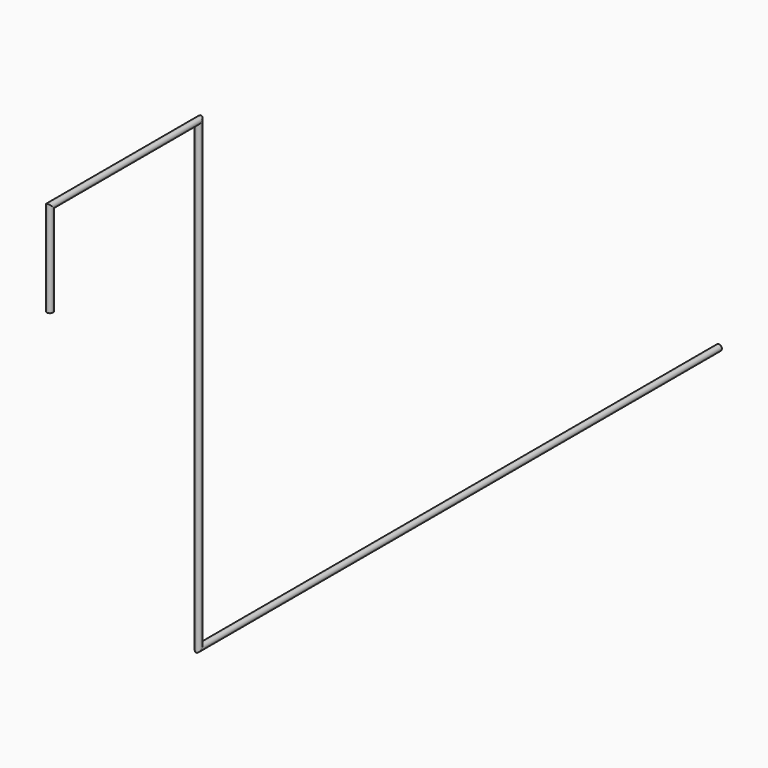
from build123d import *

# Parameters (mm, degrees)
F0_R = 4.953


with BuildPart() as f2:
    # F2: sweep along a path in F1
    with BuildLine(Plane.YZ) as f2_path:
        Line((0, 0), (0, 152.4))
        Line((0, 152.4), (304.8, 152.4))
        Line((304.8, 152.4), (304.8, -609.6))
        Line((304.8, -609.6), (1371.6, -609.6))
    # F0 (on Top) → F2 (sweep)
    with BuildSketch(Plane.XY):
        Circle(F0_R)
    sweep(path=f2_path.line, transition=Transition.RIGHT)


solid = f2.part
